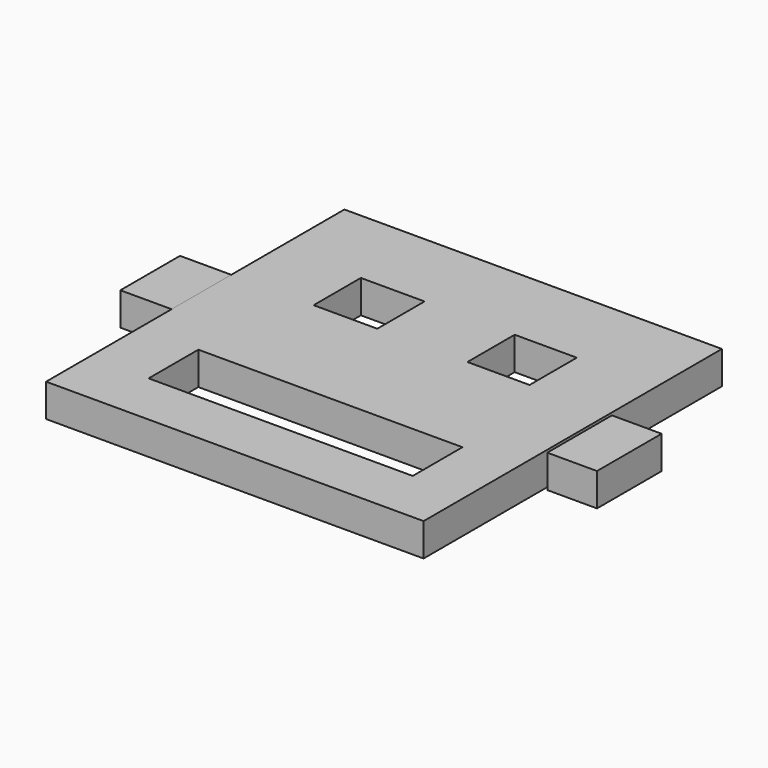
from build123d import *

# Parameters (mm, degrees)
F0_W     = 72.793982923
F0_H     = 71.901589632
F5_DEPTH = 6.35
F1_W     = 9.5860436559
F1_H     = 15.57565853
F2_W     = 9.8856016994
F2_H     = 14.3773043528
F3_W     = 12.282113079
F3_H     = 11.3873127848
F3_W_2   = 11.9825508446
F6_DEPTH = 25.4
F7_DEPTH = 6.35
F8_DEPTH = 25.4
F4_W     = 50.9258313105
F4_H     = 11.9835436344
F9_DEPTH = 25.4


with BuildPart() as f5:
    # F0 (on Top) → F5 (new body)
    with BuildSketch(Plane.XY):
        with Locations((15.1053145528, -8.6849555373)):
            Rectangle(F0_W, F0_H)
    extrude(amount=F5_DEPTH)

    # F3 (on Top) → F6 (cut)
    with BuildSketch(Plane.XY):
        with Locations((0.7262567524, 5.6936563924)):
            Rectangle(F3_W, F3_H)
        with Locations((30.2332835272, 5.6936563924)):
            Rectangle(F3_W_2, F3_H)
    extrude(amount=-F6_DEPTH, mode=Mode.SUBTRACT)

    # F3 (on Top) → F7 (join)
    with BuildSketch(Plane.XY):
        with Locations((30.2332835272, 5.6936563924)):
            Rectangle(F3_W_2, F3_H)
        with Locations((0.7262567524, 5.6936563924)):
            Rectangle(F3_W, F3_H)
    extrude(amount=F7_DEPTH)

    # F3 (on Top) → F8 (cut)
    with BuildSketch(Plane.XY):
        with Locations((30.2332835272, 5.6936563924)):
            Rectangle(F3_W_2, F3_H)
        with Locations((0.7262567524, 5.6936563924)):
            Rectangle(F3_W, F3_H)
    extrude(amount=F8_DEPTH, mode=Mode.SUBTRACT)

    # F4 (on Top) → F9 (cut)
    with BuildSketch(Plane.XY):
        with Locations((15.5546613969, -28.158377856)):
            Rectangle(F4_W, F4_H)
    extrude(amount=F9_DEPTH, mode=Mode.SUBTRACT)


with BuildPart() as f5b:
    # F1 (on Top) → F5, piece 2 (new body)
    with BuildSketch(Plane.XY):
        with Locations((56.8944551051, -7.787829265)):
            Rectangle(F1_W, F1_H)
    extrude(amount=F5_DEPTH)


with BuildPart() as f5c:
    # F2 (on Top) → F5, piece 3 (new body)
    with BuildSketch(Plane.XY):
        with Locations((-26.2344777584, -7.1886521764)):
            Rectangle(F2_W, F2_H)
    extrude(amount=F5_DEPTH)


solid = Compound([f5.part, f5b.part, f5c.part])
